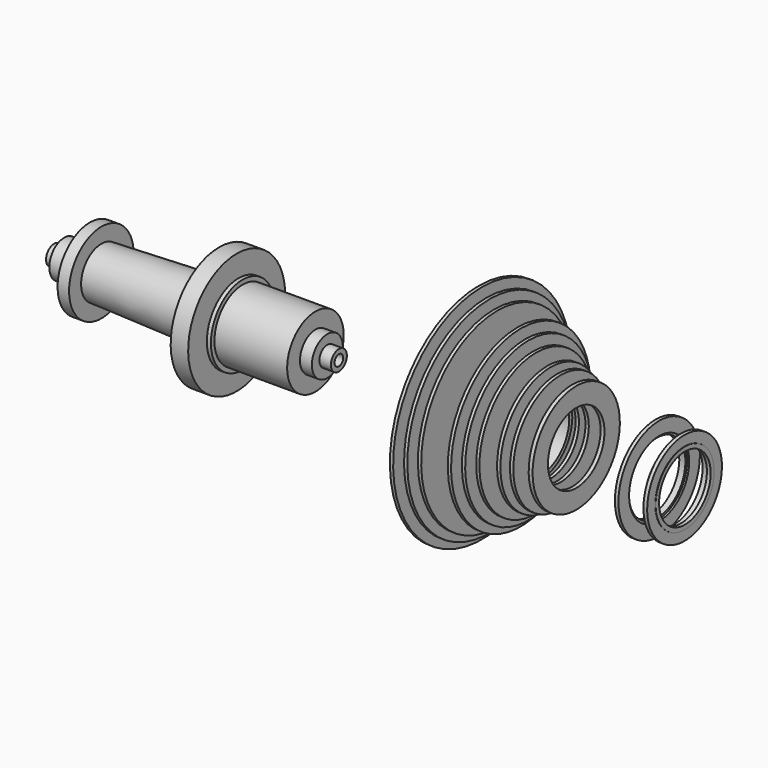
from build123d import *

# Parameters (mm, degrees)
F0_W   = 2.26
F0_H   = 2.33517
F0_W_2 = 1.65
F0_H_2 = 13.585
F0_H_3 = 11.71
F0_W_3 = 1.931026
F0_H_4 = 9.5


with BuildPart() as f1:
    # F0 (on Front) → F1 (revolve)
    with BuildSketch(Plane.XZ):
        Polygon((-124.806152, 4.93), (-129.806152, 4.93), (-129.806152, 2.67), (11.193848, 2.67), (11.193848, 4.93), (5.483848, 4.93), (5.483848, 9.58), (-0.416152, 9.58), (-0.416152, 17.5), (-36.416152, 17.5), (-36.416152, 19.69), (-38.416152, 19.69), (-38.416152, 10.43121), (-39.416152, 10.43121), (-39.416152, 30), (-48.076152, 30), (-48.076152, 14.695367), (-106.360607, 12.563288), (-106.360607, 20), (-112.046152, 20), (-112.046152, 9.2), (-124.806152, 9.2), align=None)
    revolve(axis=Axis((-68.983763, 0, 0), (-1, 0, 0)))


with BuildPart() as f2:
    # F0 (on Front) → F2 (revolve)
    with BuildSketch(Plane.XZ):
        Polygon((81.740775, 17.5), (89.660775, 17.5), (89.660775, 47.17), (88.040775, 47.17), (88.040775, 19.032835), (85.860775, 19.032835), (85.860775, 51), (84.240775, 51), (84.240775, 19.160468), (82.813953, 19.160468), (82.813953, 21.385114), (82.040775, 21.385114), (82.040775, 55), (80.440775, 55), (80.440775, 20.390663), (81.740775, 20.390663), align=None)
    revolve(axis=Axis((-68.983763, 0, 0), (-1, 0, 0)))


with BuildPart() as f3:
    # F0 (on Front) → F3 (revolve)
    with BuildSketch(Plane.XZ):
        Polygon((99.638879, 17.5), (111.228879, 17.5), (111.228879, 19.376358), (108.828879, 19.376358), (108.828879, 35.1), (107.248879, 35.1), (107.248879, 19.354651), (105.048879, 19.354651), (105.048879, 39.2), (103.448879, 39.2), (103.448879, 19.259945), (101.238879, 19.259945), (101.238879, 43.15), (99.638879, 43.15), align=None)
    revolve(axis=Axis((-68.983763, 0, 0), (-1, 0, 0)))


with BuildPart() as f4:
    # F0 (on Front) → F4 (revolve)
    with BuildSketch(Plane.XZ):
        with Locations((94.601326, 18.576645)):
            Rectangle(F0_W, F0_H)
    revolve(axis=Axis((-68.983763, 0, 0), (-1, 0, 0)))


with BuildPart() as f5:
    # F0 (on Front) → F5 (revolve)
    with BuildSketch(Plane.XZ):
        with Locations((115.179238, 24.2925)):
            Rectangle(F0_W_2, F0_H_2)
    revolve(axis=Axis((-68.983763, 0, 0), (-1, 0, 0)))


with BuildPart() as f6:
    # F0 (on Front) → F6 (revolve)
    with BuildSketch(Plane.XZ):
        with Locations((120.073271, 23.355)):
            Rectangle(F0_W_2, F0_H_3)
    revolve(axis=Axis((-68.983763, 0, 0), (-1, 0, 0)))


with BuildPart() as f7:
    # F0 (on Front) → F7 (revolve)
    with BuildSketch(Plane.XZ):
        with Locations((127.701804, 22.25)):
            Rectangle(F0_W_3, F0_H_4)
    revolve(axis=Axis((-68.983763, 0, 0), (-1, 0, 0)))


with BuildPart() as f8:
    # F0 (on Front) → F8 (revolve)
    with BuildSketch(Plane.XZ):
        Polygon((167.978864, 25.2), (167.978864, 19.350905), (165.688864, 19.350905), (165.688864, 17.5), (168.718864, 17.5), (168.718864, 18.58), (169.718864, 18.58), (169.718864, 25.2), align=None)
    revolve(axis=Axis((-68.983763, 0, 0), (-1, 0, 0)))


with BuildPart() as f9:
    # F0 (on Front) → F9 (revolve)
    with BuildSketch(Plane.XZ):
        Polygon((180.451046, 23.135), (180.451046, 18.37), (177.211046, 18.37), (177.211046, 17.5), (180.581046, 17.5), (180.581046, 15.965), (182.451046, 15.965), (182.451046, 18.095), (182.291046, 18.095), (182.291046, 23.135), align=None)
    revolve(axis=Axis((-68.983763, 0, 0), (-1, 0, 0)))


solid = Compound([f1.part, f2.part, f3.part, f4.part, f5.part, f6.part, f7.part, f8.part, f9.part])
